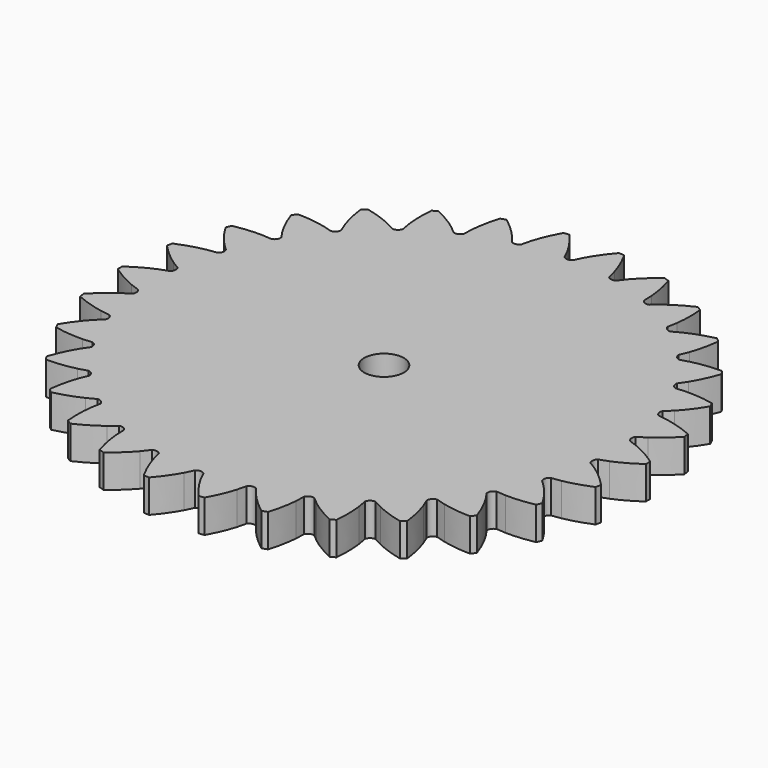
from build123d import *

# Parameters (mm, degrees)
PAD_DEPTH   = 5
SKETCH001_R = 3
HOLE_DEPTH  = 25


with BuildPart() as part:
    # InvoluteGear → Pad (new body)
    with BuildSketch(Plane.XY):
        with BuildLine():
            add(Edge.make_bspline(
                [(34.835335, -3.029286), (35.24743, -2.904962), (35.704591, -2.744677), (36.201734, -2.538792)],
                knots=[0, 0, 0, 0, 1, 1, 1, 1], degree=3))
            add(Edge.make_bspline(
                [(36.201734, -2.538792), (37.301722, -2.083008), (38.590635, -1.407932), (39.998819, -0.417623)],
                knots=[0, 0, 0, 0, 1, 1, 1, 1], degree=3))
            ThreePointArc((39.998819, -0.417623), (40.0005, 0.000337), (39.997813, 0.418293))
            add(Edge.make_bspline(
                [(39.997813, 0.418293), (38.590635, 1.407932), (37.301722, 2.083008), (36.201734, 2.538792)],
                knots=[0, 0, 0, 0, 1, 1, 1, 1], degree=3))
            add(Edge.make_bspline(
                [(36.201734, 2.538792), (35.704591, 2.744677), (35.24743, 2.904962), (34.835381, 3.029265)],
                knots=[0, 0, 0, 0, 1, 1, 1, 1], degree=3))
            ThreePointArc((34.835381, 3.029265), (34.533244, 3.629569), (34.703923, 4.279584))
            add(Edge.make_bspline(
                [(34.703923, 4.279584), (35.081165, 4.486871), (35.495011, 4.738703), (35.938484, 5.04345)],
                knots=[0, 0, 0, 0, 1, 1, 1, 1], degree=3))
            add(Edge.make_bspline(
                [(35.938484, 5.04345), (36.919672, 5.717975), (38.040062, 6.646279), (39.211578, 7.907725)],
                knots=[0, 0, 0, 0, 1, 1, 1, 1], degree=3))
            ThreePointArc((39.211578, 7.907725), (39.126323, 8.316901), (39.036797, 8.725165))
            add(Edge.make_bspline(
                [(39.036797, 8.725165), (37.454611, 9.400609), (36.053508, 9.792953), (34.882795, 10.010077)],
                knots=[0, 0, 0, 0, 1, 1, 1, 1], degree=3))
            add(Edge.make_bspline(
                [(34.882795, 10.010077), (34.35371, 10.108101), (33.873213, 10.169835), (33.444324, 10.205752)],
                knots=[0, 0, 0, 0, 1, 1, 1, 1], degree=3))
            ThreePointArc((33.444324, 10.205752), (33.02398, 10.730119), (33.055784, 11.401416))
            add(Edge.make_bspline(
                [(33.055784, 11.401416), (33.381684, 11.682606), (33.734128, 12.014979), (34.10455, 12.40527)],
                knots=[0, 0, 0, 0, 1, 1, 1, 1], degree=3))
            add(Edge.make_bspline(
                [(34.10455, 12.40527), (34.924054, 13.269055), (35.826956, 14.410015), (36.710602, 15.887468)],
                knots=[0, 0, 0, 0, 1, 1, 1, 1], degree=3))
            ThreePointArc((36.710602, 15.887468), (36.542138, 16.269977), (36.369685, 16.650705))
            add(Edge.make_bspline(
                [(36.369685, 16.650705), (34.681641, 16.982435), (33.229583, 17.074899), (32.03931, 17.043874)],
                knots=[0, 0, 0, 0, 1, 1, 1, 1], degree=3))
            add(Edge.make_bspline(
                [(32.03931, 17.043874), (31.501406, 17.029753), (31.018575, 16.990236), (30.591591, 16.936197)],
                knots=[0, 0, 0, 0, 1, 1, 1, 1], degree=3))
            ThreePointArc((30.591591, 16.936197), (30.071409, 17.361712), (29.962948, 18.024952))
            add(Edge.make_bspline(
                [(29.962948, 18.024952), (30.223264, 18.367756), (30.498902, 18.766142), (30.780083, 19.224919)],
                knots=[0, 0, 0, 0, 1, 1, 1, 1], degree=3))
            add(Edge.make_bspline(
                [(30.780083, 19.224919), (31.402088, 20.240213), (32.048041, 21.543965), (32.605197, 23.172852)],
                knots=[0, 0, 0, 0, 1, 1, 1, 1], degree=3))
            ThreePointArc((32.605197, 23.172852), (32.360886, 23.511977), (32.113044, 23.84853))
            add(Edge.make_bspline(
                [(32.113044, 23.84853), (30.392917, 23.822047), (28.953366, 23.610591), (27.795554, 23.332772)],
                knots=[0, 0, 0, 0, 1, 1, 1, 1], degree=3))
            add(Edge.make_bspline(
                [(27.795554, 23.332772), (27.272341, 23.207122), (26.808276, 23.068083), (26.401857, 22.92645)],
                knots=[0, 0, 0, 0, 1, 1, 1, 1], degree=3))
            ThreePointArc((26.401857, 22.92645), (25.804574, 23.234515), (25.560587, 23.860711))
            add(Edge.make_bspline(
                [(25.560587, 23.860711), (25.743942, 24.250146), (25.930727, 24.697135), (26.110379, 25.204348)],
                knots=[0, 0, 0, 0, 1, 1, 1, 1], degree=3))
            add(Edge.make_bspline(
                [(26.110379, 25.204348), (26.5077, 26.326778), (26.868472, 27.73634), (27.074789, 29.445471)],
                knots=[0, 0, 0, 0, 1, 1, 1, 1], degree=3))
            ThreePointArc((27.074789, 29.445471), (26.765308, 29.72639), (26.452909, 30.00406))
            add(Edge.make_bspline(
                [(26.452909, 30.00406), (24.775877, 29.620521), (23.411748, 29.114386), (22.336998, 28.601915)],
                knots=[0, 0, 0, 0, 1, 1, 1, 1], degree=3))
            add(Edge.make_bspline(
                [(22.336998, 28.601915), (21.851342, 28.370229), (21.426326, 28.137744), (21.058236, 27.914707)],
                knots=[0, 0, 0, 0, 1, 1, 1, 1], degree=3))
            ThreePointArc((21.058236, 27.914707), (20.409955, 28.091857), (20.041106, 28.653642))
            add(Edge.make_bspline(
                [(20.041106, 28.653642), (20.139486, 29.072689), (20.229255, 29.548745), (20.299526, 30.082225)],
                knots=[0, 0, 0, 0, 1, 1, 1, 1], degree=3))
            add(Edge.make_bspline(
                [(20.299526, 30.082225), (20.454799, 31.262735), (20.514622, 32.716504), (20.361082, 34.431182)],
                knots=[0, 0, 0, 0, 1, 1, 1, 1], degree=3))
            ThreePointArc((20.361082, 34.431182), (19.999958, 34.641618), (19.636654, 34.848268))
            add(Edge.make_bspline(
                [(19.636654, 34.848268), (18.076012, 34.124436), (16.846923, 33.345743), (15.902208, 32.621018)],
                knots=[0, 0, 0, 0, 1, 1, 1, 1], degree=3))
            add(Edge.make_bspline(
                [(15.902208, 32.621018), (15.475336, 32.293421), (15.107944, 31.977651), (14.794269, 31.682957)],
                knots=[0, 0, 0, 0, 1, 1, 1, 1], degree=3))
            ThreePointArc((14.794269, 31.682957), (14.123323, 31.721451), (13.645733, 32.194271))
            add(Edge.make_bspline(
                [(13.645733, 32.194271), (13.654838, 32.624615), (13.643668, 33.108932), (13.601486, 33.645365)],
                knots=[0, 0, 0, 0, 1, 1, 1, 1], degree=3))
            add(Edge.make_bspline(
                [(13.601486, 33.645365), (13.507924, 34.832361), (13.264185, 36.266799), (12.757498, 37.912085)],
                knots=[0, 0, 0, 0, 1, 1, 1, 1], degree=3))
            ThreePointArc((12.757498, 37.912085), (12.360513, 38.04284), (11.962184, 38.16944))
            add(Edge.make_bspline(
                [(11.962184, 38.16944), (10.586139, 37.136949), (9.545808, 36.119731), (8.772416, 35.214425)],
                knots=[0, 0, 0, 0, 1, 1, 1, 1], degree=3))
            add(Edge.make_bspline(
                [(8.772416, 35.214425), (8.422983, 34.805236), (8.129272, 34.419981), (7.883722, 34.06651)],
                knots=[0, 0, 0, 0, 1, 1, 1, 1], degree=3))
            ThreePointArc((7.883722, 34.06651), (7.219434, 33.964665), (6.653976, 34.327857))
            add(Edge.make_bspline(
                [(6.653976, 34.327857), (6.573408, 34.75069), (6.461787, 35.222101), (6.308996, 35.738041)],
                knots=[0, 0, 0, 0, 1, 1, 1, 1], degree=3))
            add(Edge.make_bspline(
                [(6.308996, 35.738041), (5.970688, 36.879646), (5.434039, 38.232062), (4.596351, 39.736048)],
                knots=[0, 0, 0, 0, 1, 1, 1, 1], degree=3))
            ThreePointArc((4.596351, 39.736048), (4.180855, 39.781408), (3.764909, 39.822424))
            add(Edge.make_bspline(
                [(3.764909, 39.822424), (2.6336, 38.5264), (1.827495, 37.315113), (1.259227, 36.268794)],
                knots=[0, 0, 0, 0, 1, 1, 1, 1], degree=3))
            add(Edge.make_bspline(
                [(1.259227, 36.268794), (1.002505, 35.795895), (0.795311, 35.357992), (0.628618, 34.961193)],
                knots=[0, 0, 0, 0, 1, 1, 1, 1], degree=3))
            ThreePointArc((0.628618, 34.961193), (2.1e-05, 34.72346), (-0.628593, 34.96115))
            add(Edge.make_bspline(
                [(-0.628593, 34.96115), (-0.795311, 35.357992), (-1.002505, 35.795895), (-1.259227, 36.268794)],
                knots=[0, 0, 0, 0, 1, 1, 1, 1], degree=3))
            add(Edge.make_bspline(
                [(-1.259227, 36.268794), (-1.827495, 37.315113), (-2.6336, 38.5264), (-3.76568, 39.823355)],
                knots=[0, 0, 0, 0, 1, 1, 1, 1], degree=3))
            ThreePointArc((-3.76568, 39.823355), (-4.181526, 39.781338), (-4.596911, 39.734977))
            add(Edge.make_bspline(
                [(-4.596911, 39.734977), (-5.434039, 38.232062), (-5.970688, 36.879646), (-6.308996, 35.738041)],
                knots=[0, 0, 0, 0, 1, 1, 1, 1], degree=3))
            add(Edge.make_bspline(
                [(-6.308996, 35.738041), (-6.461787, 35.222101), (-6.573408, 34.75069), (-6.65396, 34.327904)],
                knots=[0, 0, 0, 0, 1, 1, 1, 1], degree=3))
            ThreePointArc((-6.65396, 34.327904), (-7.219393, 33.964674), (-7.883688, 34.066473))
            add(Edge.make_bspline(
                [(-7.883688, 34.066473), (-8.129272, 34.419981), (-8.422983, 34.805236), (-8.772416, 35.214425)],
                knots=[0, 0, 0, 0, 1, 1, 1, 1], degree=3))
            add(Edge.make_bspline(
                [(-8.772416, 35.214425), (-9.545808, 36.119731), (-10.586139, 37.136949), (-11.963132, 38.17019)],
                knots=[0, 0, 0, 0, 1, 1, 1, 1], degree=3))
            ThreePointArc((-11.963132, 38.17019), (-12.361155, 38.042632), (-12.757824, 37.910921))
            add(Edge.make_bspline(
                [(-12.757824, 37.910921), (-13.264185, 36.266799), (-13.507924, 34.832361), (-13.601486, 33.645365)],
                knots=[0, 0, 0, 0, 1, 1, 1, 1], degree=3))
            add(Edge.make_bspline(
                [(-13.601486, 33.645365), (-13.643668, 33.108932), (-13.654838, 32.624615), (-13.645727, 32.194321)],
                knots=[0, 0, 0, 0, 1, 1, 1, 1], degree=3))
            ThreePointArc((-13.645727, 32.194321), (-14.123285, 31.721468), (-14.794229, 31.682928))
            add(Edge.make_bspline(
                [(-14.794229, 31.682928), (-15.107944, 31.977651), (-15.475336, 32.293421), (-15.902208, 32.621018)],
                knots=[0, 0, 0, 0, 1, 1, 1, 1], degree=3))
            add(Edge.make_bspline(
                [(-15.902208, 32.621018), (-16.846923, 33.345743), (-18.076012, 34.124436), (-19.637737, 34.848805)],
                knots=[0, 0, 0, 0, 1, 1, 1, 1], degree=3))
            ThreePointArc((-19.637737, 34.848805), (-20.000542, 34.64128), (-20.361158, 34.429976))
            add(Edge.make_bspline(
                [(-20.361158, 34.429976), (-20.514622, 32.716504), (-20.454799, 31.262735), (-20.299526, 30.082225)],
                knots=[0, 0, 0, 0, 1, 1, 1, 1], degree=3))
            add(Edge.make_bspline(
                [(-20.299526, 30.082225), (-20.229255, 29.548745), (-20.139486, 29.072689), (-20.041111, 28.653692)],
                knots=[0, 0, 0, 0, 1, 1, 1, 1], degree=3))
            ThreePointArc((-20.041111, 28.653692), (-20.409921, 28.091882), (-21.05819, 27.914687))
            add(Edge.make_bspline(
                [(-21.05819, 27.914687), (-21.426326, 28.137744), (-21.851342, 28.370229), (-22.336998, 28.601915)],
                knots=[0, 0, 0, 0, 1, 1, 1, 1], degree=3))
            add(Edge.make_bspline(
                [(-22.336998, 28.601915), (-23.411748, 29.114386), (-24.775877, 29.620521), (-26.45408, 30.00436)],
                knots=[0, 0, 0, 0, 1, 1, 1, 1], degree=3))
            ThreePointArc((-26.45408, 30.00436), (-26.765809, 29.725939), (-27.074613, 29.444275))
            add(Edge.make_bspline(
                [(-27.074613, 29.444275), (-26.868472, 27.73634), (-26.5077, 26.326778), (-26.110379, 25.204348)],
                knots=[0, 0, 0, 0, 1, 1, 1, 1], degree=3))
            add(Edge.make_bspline(
                [(-26.110379, 25.204348), (-25.930727, 24.697135), (-25.743942, 24.250146), (-25.560602, 23.860759)],
                knots=[0, 0, 0, 0, 1, 1, 1, 1], degree=3))
            ThreePointArc((-25.560602, 23.860759), (-25.804546, 23.234546), (-26.401808, 22.92644))
            add(Edge.make_bspline(
                [(-26.401808, 22.92644), (-26.808276, 23.068083), (-27.272341, 23.207122), (-27.795554, 23.332772)],
                knots=[0, 0, 0, 0, 1, 1, 1, 1], degree=3))
            add(Edge.make_bspline(
                [(-27.795554, 23.332772), (-28.953366, 23.610591), (-30.392917, 23.822047), (-32.114252, 23.84858)],
                knots=[0, 0, 0, 0, 1, 1, 1, 1], degree=3))
            ThreePointArc((-32.114252, 23.84858), (-32.361282, 23.511431), (-32.604776, 23.171719))
            add(Edge.make_bspline(
                [(-32.604776, 23.171719), (-32.048041, 21.543965), (-31.402088, 20.240213), (-30.780083, 19.224919)],
                knots=[0, 0, 0, 0, 1, 1, 1, 1], degree=3))
            add(Edge.make_bspline(
                [(-30.780083, 19.224919), (-30.498902, 18.766142), (-30.223264, 18.367756), (-29.962973, 18.024996)],
                knots=[0, 0, 0, 0, 1, 1, 1, 1], degree=3))
            ThreePointArc((-29.962973, 18.024996), (-30.071388, 17.361748), (-30.59154, 16.936198))
            add(Edge.make_bspline(
                [(-30.59154, 16.936198), (-31.018575, 16.990236), (-31.501406, 17.029753), (-32.03931, 17.043874)],
                knots=[0, 0, 0, 0, 1, 1, 1, 1], degree=3))
            add(Edge.make_bspline(
                [(-32.03931, 17.043874), (-33.229583, 17.074899), (-34.681641, 16.982435), (-36.370877, 16.650503)],
                knots=[0, 0, 0, 0, 1, 1, 1, 1], degree=3))
            ThreePointArc((-36.370877, 16.650503), (-36.542412, 16.269361), (-36.709955, 15.886447))
            add(Edge.make_bspline(
                [(-36.709955, 15.886447), (-35.826956, 14.410015), (-34.924054, 13.269055), (-34.10455, 12.40527)],
                knots=[0, 0, 0, 0, 1, 1, 1, 1], degree=3))
            add(Edge.make_bspline(
                [(-34.10455, 12.40527), (-33.734128, 12.014979), (-33.381684, 11.682606), (-33.055817, 11.401454)],
                knots=[0, 0, 0, 0, 1, 1, 1, 1], degree=3))
            ThreePointArc((-33.055817, 11.401454), (-33.023967, 10.730159), (-33.444275, 10.205762))
            add(Edge.make_bspline(
                [(-33.444275, 10.205762), (-33.873213, 10.169835), (-34.35371, 10.108101), (-34.882795, 10.010077)],
                knots=[0, 0, 0, 0, 1, 1, 1, 1], degree=3))
            add(Edge.make_bspline(
                [(-34.882795, 10.010077), (-36.053508, 9.792953), (-37.454611, 9.400609), (-39.03792, 8.724719)],
                knots=[0, 0, 0, 0, 1, 1, 1, 1], degree=3))
            ThreePointArc((-39.03792, 8.724719), (-39.126463, 8.316242), (-39.210733, 7.906861))
            add(Edge.make_bspline(
                [(-39.210733, 7.906861), (-38.040062, 6.646279), (-36.919672, 5.717975), (-35.938484, 5.04345)],
                knots=[0, 0, 0, 0, 1, 1, 1, 1], degree=3))
            add(Edge.make_bspline(
                [(-35.938484, 5.04345), (-35.495011, 4.738703), (-35.081165, 4.486871), (-34.703964, 4.279614)],
                knots=[0, 0, 0, 0, 1, 1, 1, 1], degree=3))
            ThreePointArc((-34.703964, 4.279614), (-34.533239, 3.629611), (-34.835335, 3.029286))
            add(Edge.make_bspline(
                [(-34.835335, 3.029286), (-35.24743, 2.904962), (-35.704591, 2.744677), (-36.201734, 2.538792)],
                knots=[0, 0, 0, 0, 1, 1, 1, 1], degree=3))
            add(Edge.make_bspline(
                [(-36.201734, 2.538792), (-37.301722, 2.083008), (-38.590635, 1.407932), (-39.998819, 0.417623)],
                knots=[0, 0, 0, 0, 1, 1, 1, 1], degree=3))
            ThreePointArc((-39.998819, 0.417623), (-40.0005, -0.000337), (-39.997813, -0.418293))
            add(Edge.make_bspline(
                [(-39.997813, -0.418293), (-38.590635, -1.407932), (-37.301722, -2.083008), (-36.201734, -2.538792)],
                knots=[0, 0, 0, 0, 1, 1, 1, 1], degree=3))
            add(Edge.make_bspline(
                [(-36.201734, -2.538792), (-35.704591, -2.744677), (-35.24743, -2.904962), (-34.835381, -3.029265)],
                knots=[0, 0, 0, 0, 1, 1, 1, 1], degree=3))
            ThreePointArc((-34.835381, -3.029265), (-34.533244, -3.629569), (-34.703923, -4.279584))
            add(Edge.make_bspline(
                [(-34.703923, -4.279584), (-35.081165, -4.486871), (-35.495011, -4.738703), (-35.938484, -5.04345)],
                knots=[0, 0, 0, 0, 1, 1, 1, 1], degree=3))
            add(Edge.make_bspline(
                [(-35.938484, -5.04345), (-36.919672, -5.717975), (-38.040062, -6.646279), (-39.211578, -7.907725)],
                knots=[0, 0, 0, 0, 1, 1, 1, 1], degree=3))
            ThreePointArc((-39.211578, -7.907725), (-39.126323, -8.316901), (-39.036797, -8.725165))
            add(Edge.make_bspline(
                [(-39.036797, -8.725165), (-37.454611, -9.400609), (-36.053508, -9.792953), (-34.882795, -10.010077)],
                knots=[0, 0, 0, 0, 1, 1, 1, 1], degree=3))
            add(Edge.make_bspline(
                [(-34.882795, -10.010077), (-34.35371, -10.108101), (-33.873213, -10.169835), (-33.444324, -10.205752)],
                knots=[0, 0, 0, 0, 1, 1, 1, 1], degree=3))
            ThreePointArc((-33.444324, -10.205752), (-33.02398, -10.730119), (-33.055784, -11.401416))
            add(Edge.make_bspline(
                [(-33.055784, -11.401416), (-33.381684, -11.682606), (-33.734128, -12.014979), (-34.10455, -12.40527)],
                knots=[0, 0, 0, 0, 1, 1, 1, 1], degree=3))
            add(Edge.make_bspline(
                [(-34.10455, -12.40527), (-34.924054, -13.269055), (-35.826956, -14.410015), (-36.710602, -15.887468)],
                knots=[0, 0, 0, 0, 1, 1, 1, 1], degree=3))
            ThreePointArc((-36.710602, -15.887468), (-36.542138, -16.269977), (-36.369685, -16.650705))
            add(Edge.make_bspline(
                [(-36.369685, -16.650705), (-34.681641, -16.982435), (-33.229583, -17.074899), (-32.03931, -17.043874)],
                knots=[0, 0, 0, 0, 1, 1, 1, 1], degree=3))
            add(Edge.make_bspline(
                [(-32.03931, -17.043874), (-31.501406, -17.029753), (-31.018575, -16.990236), (-30.591591, -16.936197)],
                knots=[0, 0, 0, 0, 1, 1, 1, 1], degree=3))
            ThreePointArc((-30.591591, -16.936197), (-30.071409, -17.361712), (-29.962948, -18.024952))
            add(Edge.make_bspline(
                [(-29.962948, -18.024952), (-30.223264, -18.367756), (-30.498902, -18.766142), (-30.780083, -19.224919)],
                knots=[0, 0, 0, 0, 1, 1, 1, 1], degree=3))
            add(Edge.make_bspline(
                [(-30.780083, -19.224919), (-31.402088, -20.240213), (-32.048041, -21.543965), (-32.605197, -23.172852)],
                knots=[0, 0, 0, 0, 1, 1, 1, 1], degree=3))
            ThreePointArc((-32.605197, -23.172852), (-32.360886, -23.511977), (-32.113044, -23.84853))
            add(Edge.make_bspline(
                [(-32.113044, -23.84853), (-30.392917, -23.822047), (-28.953366, -23.610591), (-27.795554, -23.332772)],
                knots=[0, 0, 0, 0, 1, 1, 1, 1], degree=3))
            add(Edge.make_bspline(
                [(-27.795554, -23.332772), (-27.272341, -23.207122), (-26.808276, -23.068083), (-26.401857, -22.92645)],
                knots=[0, 0, 0, 0, 1, 1, 1, 1], degree=3))
            ThreePointArc((-26.401857, -22.92645), (-25.804574, -23.234515), (-25.560587, -23.860711))
            add(Edge.make_bspline(
                [(-25.560587, -23.860711), (-25.743942, -24.250146), (-25.930727, -24.697135), (-26.110379, -25.204348)],
                knots=[0, 0, 0, 0, 1, 1, 1, 1], degree=3))
            add(Edge.make_bspline(
                [(-26.110379, -25.204348), (-26.5077, -26.326778), (-26.868472, -27.73634), (-27.074789, -29.445471)],
                knots=[0, 0, 0, 0, 1, 1, 1, 1], degree=3))
            ThreePointArc((-27.074789, -29.445471), (-26.765308, -29.72639), (-26.452909, -30.00406))
            add(Edge.make_bspline(
                [(-26.452909, -30.00406), (-24.775877, -29.620521), (-23.411748, -29.114386), (-22.336998, -28.601915)],
                knots=[0, 0, 0, 0, 1, 1, 1, 1], degree=3))
            add(Edge.make_bspline(
                [(-22.336998, -28.601915), (-21.851342, -28.370229), (-21.426326, -28.137744), (-21.058236, -27.914707)],
                knots=[0, 0, 0, 0, 1, 1, 1, 1], degree=3))
            ThreePointArc((-21.058236, -27.914707), (-20.409955, -28.091857), (-20.041106, -28.653642))
            add(Edge.make_bspline(
                [(-20.041106, -28.653642), (-20.139486, -29.072689), (-20.229255, -29.548745), (-20.299526, -30.082225)],
                knots=[0, 0, 0, 0, 1, 1, 1, 1], degree=3))
            add(Edge.make_bspline(
                [(-20.299526, -30.082225), (-20.454799, -31.262735), (-20.514622, -32.716504), (-20.361082, -34.431182)],
                knots=[0, 0, 0, 0, 1, 1, 1, 1], degree=3))
            ThreePointArc((-20.361082, -34.431182), (-19.999958, -34.641618), (-19.636654, -34.848268))
            add(Edge.make_bspline(
                [(-19.636654, -34.848268), (-18.076012, -34.124436), (-16.846923, -33.345743), (-15.902208, -32.621018)],
                knots=[0, 0, 0, 0, 1, 1, 1, 1], degree=3))
            add(Edge.make_bspline(
                [(-15.902208, -32.621018), (-15.475336, -32.293421), (-15.107944, -31.977651), (-14.794269, -31.682957)],
                knots=[0, 0, 0, 0, 1, 1, 1, 1], degree=3))
            ThreePointArc((-14.794269, -31.682957), (-14.123323, -31.721451), (-13.645733, -32.194271))
            add(Edge.make_bspline(
                [(-13.645733, -32.194271), (-13.654838, -32.624615), (-13.643668, -33.108932), (-13.601486, -33.645365)],
                knots=[0, 0, 0, 0, 1, 1, 1, 1], degree=3))
            add(Edge.make_bspline(
                [(-13.601486, -33.645365), (-13.507924, -34.832361), (-13.264185, -36.266799), (-12.757498, -37.912085)],
                knots=[0, 0, 0, 0, 1, 1, 1, 1], degree=3))
            ThreePointArc((-12.757498, -37.912085), (-12.360513, -38.04284), (-11.962184, -38.16944))
            add(Edge.make_bspline(
                [(-11.962184, -38.16944), (-10.586139, -37.136949), (-9.545808, -36.119731), (-8.772416, -35.214425)],
                knots=[0, 0, 0, 0, 1, 1, 1, 1], degree=3))
            add(Edge.make_bspline(
                [(-8.772416, -35.214425), (-8.422983, -34.805236), (-8.129272, -34.419981), (-7.883722, -34.06651)],
                knots=[0, 0, 0, 0, 1, 1, 1, 1], degree=3))
            ThreePointArc((-7.883722, -34.06651), (-7.219434, -33.964665), (-6.653976, -34.327857))
            add(Edge.make_bspline(
                [(-6.653976, -34.327857), (-6.573408, -34.75069), (-6.461787, -35.222101), (-6.308996, -35.738041)],
                knots=[0, 0, 0, 0, 1, 1, 1, 1], degree=3))
            add(Edge.make_bspline(
                [(-6.308996, -35.738041), (-5.970688, -36.879646), (-5.434039, -38.232062), (-4.596351, -39.736048)],
                knots=[0, 0, 0, 0, 1, 1, 1, 1], degree=3))
            ThreePointArc((-4.596351, -39.736048), (-4.180855, -39.781408), (-3.764909, -39.822424))
            add(Edge.make_bspline(
                [(-3.764909, -39.822424), (-2.6336, -38.5264), (-1.827495, -37.315113), (-1.259227, -36.268794)],
                knots=[0, 0, 0, 0, 1, 1, 1, 1], degree=3))
            add(Edge.make_bspline(
                [(-1.259227, -36.268794), (-1.002505, -35.795895), (-0.795311, -35.357992), (-0.628618, -34.961193)],
                knots=[0, 0, 0, 0, 1, 1, 1, 1], degree=3))
            ThreePointArc((-0.628618, -34.961193), (-2.1e-05, -34.72346), (0.628593, -34.96115))
            add(Edge.make_bspline(
                [(0.628593, -34.96115), (0.795311, -35.357992), (1.002505, -35.795895), (1.259227, -36.268794)],
                knots=[0, 0, 0, 0, 1, 1, 1, 1], degree=3))
            add(Edge.make_bspline(
                [(1.259227, -36.268794), (1.827495, -37.315113), (2.6336, -38.5264), (3.76568, -39.823355)],
                knots=[0, 0, 0, 0, 1, 1, 1, 1], degree=3))
            ThreePointArc((3.76568, -39.823355), (4.181526, -39.781338), (4.596911, -39.734977))
            add(Edge.make_bspline(
                [(4.596911, -39.734977), (5.434039, -38.232062), (5.970688, -36.879646), (6.308996, -35.738041)],
                knots=[0, 0, 0, 0, 1, 1, 1, 1], degree=3))
            add(Edge.make_bspline(
                [(6.308996, -35.738041), (6.461787, -35.222101), (6.573408, -34.75069), (6.65396, -34.327904)],
                knots=[0, 0, 0, 0, 1, 1, 1, 1], degree=3))
            ThreePointArc((6.65396, -34.327904), (7.219393, -33.964674), (7.883688, -34.066473))
            add(Edge.make_bspline(
                [(7.883688, -34.066473), (8.129272, -34.419981), (8.422983, -34.805236), (8.772416, -35.214425)],
                knots=[0, 0, 0, 0, 1, 1, 1, 1], degree=3))
            add(Edge.make_bspline(
                [(8.772416, -35.214425), (9.545808, -36.119731), (10.586139, -37.136949), (11.963132, -38.17019)],
                knots=[0, 0, 0, 0, 1, 1, 1, 1], degree=3))
            ThreePointArc((11.963132, -38.17019), (12.361155, -38.042632), (12.757824, -37.910921))
            add(Edge.make_bspline(
                [(12.757824, -37.910921), (13.264185, -36.266799), (13.507924, -34.832361), (13.601486, -33.645365)],
                knots=[0, 0, 0, 0, 1, 1, 1, 1], degree=3))
            add(Edge.make_bspline(
                [(13.601486, -33.645365), (13.643668, -33.108932), (13.654838, -32.624615), (13.645727, -32.194321)],
                knots=[0, 0, 0, 0, 1, 1, 1, 1], degree=3))
            ThreePointArc((13.645727, -32.194321), (14.123285, -31.721468), (14.794229, -31.682928))
            add(Edge.make_bspline(
                [(14.794229, -31.682928), (15.107944, -31.977651), (15.475336, -32.293421), (15.902208, -32.621018)],
                knots=[0, 0, 0, 0, 1, 1, 1, 1], degree=3))
            add(Edge.make_bspline(
                [(15.902208, -32.621018), (16.846923, -33.345743), (18.076012, -34.124436), (19.637737, -34.848805)],
                knots=[0, 0, 0, 0, 1, 1, 1, 1], degree=3))
            ThreePointArc((19.637737, -34.848805), (20.000542, -34.64128), (20.361158, -34.429976))
            add(Edge.make_bspline(
                [(20.361158, -34.429976), (20.514622, -32.716504), (20.454799, -31.262735), (20.299526, -30.082225)],
                knots=[0, 0, 0, 0, 1, 1, 1, 1], degree=3))
            add(Edge.make_bspline(
                [(20.299526, -30.082225), (20.229255, -29.548745), (20.139486, -29.072689), (20.041111, -28.653692)],
                knots=[0, 0, 0, 0, 1, 1, 1, 1], degree=3))
            ThreePointArc((20.041111, -28.653692), (20.409921, -28.091882), (21.05819, -27.914687))
            add(Edge.make_bspline(
                [(21.05819, -27.914687), (21.426326, -28.137744), (21.851342, -28.370229), (22.336998, -28.601915)],
                knots=[0, 0, 0, 0, 1, 1, 1, 1], degree=3))
            add(Edge.make_bspline(
                [(22.336998, -28.601915), (23.411748, -29.114386), (24.775877, -29.620521), (26.45408, -30.00436)],
                knots=[0, 0, 0, 0, 1, 1, 1, 1], degree=3))
            ThreePointArc((26.45408, -30.00436), (26.765809, -29.725939), (27.074613, -29.444275))
            add(Edge.make_bspline(
                [(27.074613, -29.444275), (26.868472, -27.73634), (26.5077, -26.326778), (26.110379, -25.204348)],
                knots=[0, 0, 0, 0, 1, 1, 1, 1], degree=3))
            add(Edge.make_bspline(
                [(26.110379, -25.204348), (25.930727, -24.697135), (25.743942, -24.250146), (25.560602, -23.860759)],
                knots=[0, 0, 0, 0, 1, 1, 1, 1], degree=3))
            ThreePointArc((25.560602, -23.860759), (25.804546, -23.234546), (26.401808, -22.92644))
            add(Edge.make_bspline(
                [(26.401808, -22.92644), (26.808276, -23.068083), (27.272341, -23.207122), (27.795554, -23.332772)],
                knots=[0, 0, 0, 0, 1, 1, 1, 1], degree=3))
            add(Edge.make_bspline(
                [(27.795554, -23.332772), (28.953366, -23.610591), (30.392917, -23.822047), (32.114252, -23.84858)],
                knots=[0, 0, 0, 0, 1, 1, 1, 1], degree=3))
            ThreePointArc((32.114252, -23.84858), (32.361282, -23.511431), (32.604776, -23.171719))
            add(Edge.make_bspline(
                [(32.604776, -23.171719), (32.048041, -21.543965), (31.402088, -20.240213), (30.780083, -19.224919)],
                knots=[0, 0, 0, 0, 1, 1, 1, 1], degree=3))
            add(Edge.make_bspline(
                [(30.780083, -19.224919), (30.498902, -18.766142), (30.223264, -18.367756), (29.962973, -18.024996)],
                knots=[0, 0, 0, 0, 1, 1, 1, 1], degree=3))
            ThreePointArc((29.962973, -18.024996), (30.071388, -17.361748), (30.59154, -16.936198))
            add(Edge.make_bspline(
                [(30.59154, -16.936198), (31.018575, -16.990236), (31.501406, -17.029753), (32.03931, -17.043874)],
                knots=[0, 0, 0, 0, 1, 1, 1, 1], degree=3))
            add(Edge.make_bspline(
                [(32.03931, -17.043874), (33.229583, -17.074899), (34.681641, -16.982435), (36.370877, -16.650503)],
                knots=[0, 0, 0, 0, 1, 1, 1, 1], degree=3))
            ThreePointArc((36.370877, -16.650503), (36.542412, -16.269361), (36.709955, -15.886447))
            add(Edge.make_bspline(
                [(36.709955, -15.886447), (35.826956, -14.410015), (34.924054, -13.269055), (34.10455, -12.40527)],
                knots=[0, 0, 0, 0, 1, 1, 1, 1], degree=3))
            add(Edge.make_bspline(
                [(34.10455, -12.40527), (33.734128, -12.014979), (33.381684, -11.682606), (33.055817, -11.401454)],
                knots=[0, 0, 0, 0, 1, 1, 1, 1], degree=3))
            ThreePointArc((33.055817, -11.401454), (33.023967, -10.730159), (33.444275, -10.205762))
            add(Edge.make_bspline(
                [(33.444275, -10.205762), (33.873213, -10.169835), (34.35371, -10.108101), (34.882795, -10.010077)],
                knots=[0, 0, 0, 0, 1, 1, 1, 1], degree=3))
            add(Edge.make_bspline(
                [(34.882795, -10.010077), (36.053508, -9.792953), (37.454611, -9.400609), (39.03792, -8.724719)],
                knots=[0, 0, 0, 0, 1, 1, 1, 1], degree=3))
            ThreePointArc((39.03792, -8.724719), (39.126463, -8.316242), (39.210733, -7.906861))
            add(Edge.make_bspline(
                [(39.210733, -7.906861), (38.040062, -6.646279), (36.919672, -5.717975), (35.938484, -5.04345)],
                knots=[0, 0, 0, 0, 1, 1, 1, 1], degree=3))
            add(Edge.make_bspline(
                [(35.938484, -5.04345), (35.495011, -4.738703), (35.081165, -4.486871), (34.703964, -4.279614)],
                knots=[0, 0, 0, 0, 1, 1, 1, 1], degree=3))
            ThreePointArc((34.703964, -4.279614), (34.533239, -3.629611), (34.835335, -3.029286))
        make_face()
    extrude(amount=PAD_DEPTH)

    # Sketch001 (on Face182 of Pad) → Hole (cut)
    with BuildSketch(Plane.XY.offset(5)):
        Circle(SKETCH001_R)
    extrude(amount=-HOLE_DEPTH, mode=Mode.SUBTRACT)


solid = part.part
